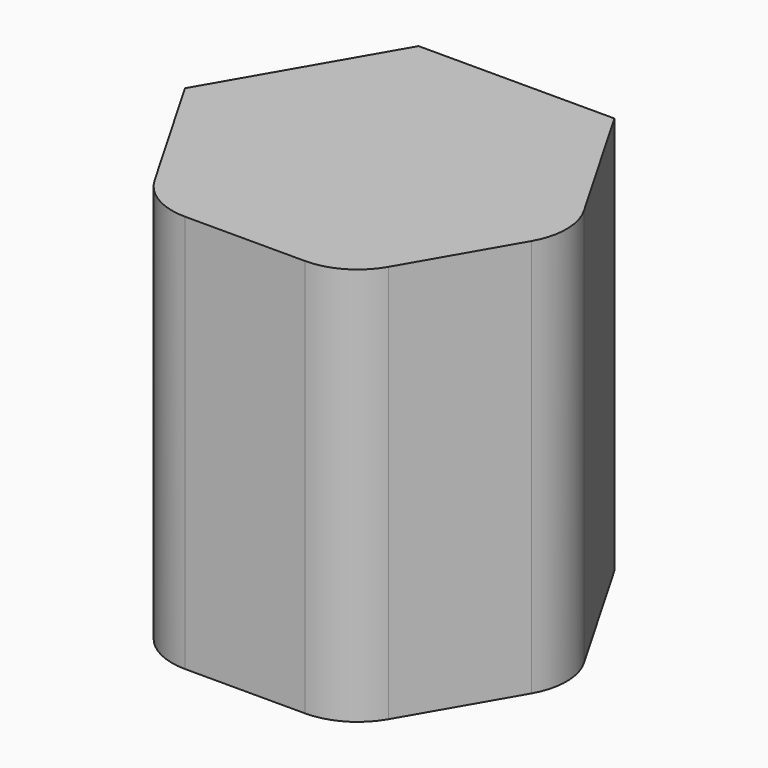
from build123d import *

# Parameters (mm, degrees)
F1_DEPTH = 18.2
F3_DEPTH = 6.5
F4_R     = 4
F5_DEPTH = 12.5
F6_R     = 3


with BuildPart() as f1:
    # F0 (on Top) → F1 (new body)
    with BuildSketch(Plane.XY):
        Polygon((4.474465, -7.75), (8.948929, 0), (4.474465, 7.75), (-4.474465, 7.75), (-8.948929, 0), (-4.474465, -7.75), align=None)
    extrude(amount=F1_DEPTH)

    # F2 (on Top) → F3 (cut)
    with BuildSketch(Plane.XY):
        Polygon((3.608439, -6.25), (7.216878, 0), (3.608439, 6.25), (-3.608439, 6.25), (-7.216878, 0), (-3.608439, -6.25), align=None)
    extrude(amount=F3_DEPTH, mode=Mode.SUBTRACT)

    # F4 (on Top) → F5 (cut)
    with BuildSketch(Plane.XY):
        Circle(F4_R)
    extrude(amount=F5_DEPTH, mode=Mode.SUBTRACT)

    # F6
    f6_edges = [f1.edges().sort_by_distance(p)[0] for p in [
        (8.948929, 0, 9.1),
        (4.474465, -7.75, 9.1),
        (-4.474465, -7.75, 9.1),
    ]]
    fillet(f6_edges, radius=F6_R)


solid = f1.part
